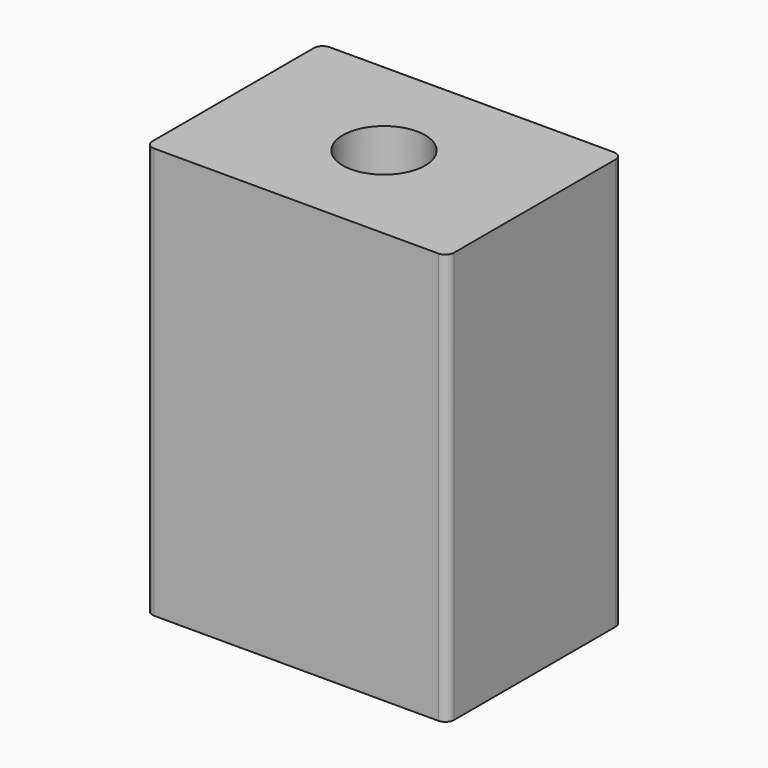
from build123d import *

# Parameters (mm, degrees)
F0_W      = 34.925
F0_H      = 25.4
F1_DEPTH  = 47.625
F2_R      = 11.1125
F3_DEPTH  = 25.4
F4_R      = 9.525
F5_DEPTH  = 8.128
F6_R      = 4.7625
F7_DEPTH  = 25.4
F8_R      = 1.9304
F9_DEPTH  = 16.77604
F10_R     = 1.016
F11_R     = 2.560992
F12_DEPTH = 4.572


with BuildPart() as f1:
    # F0 (on Top) → F1 (new body)
    with BuildSketch(Plane.XY):
        Rectangle(F0_W, F0_H)
    extrude(amount=F1_DEPTH)

    # F2 (on Top) → F3 (cut)
    with BuildSketch(Plane.XY):
        Circle(F2_R)
    extrude(amount=F3_DEPTH, mode=Mode.SUBTRACT)

    # F4 (on face) → F5 (cut)
    with BuildSketch(Plane(origin=(0, 0, 25.4), x_dir=(1, 0, 0), z_dir=(0, 0, -1))):
        Circle(F4_R)
    extrude(amount=-F5_DEPTH, mode=Mode.SUBTRACT)

    # F6 (on face) → F7 (cut)
    with BuildSketch(Plane.XY.offset(47.625)):
        Circle(F6_R)
    extrude(amount=-F7_DEPTH, mode=Mode.SUBTRACT)

    # F8 (on face) → F9 (cut)
    with BuildSketch(Plane(origin=(-17.4625, 0, 0), x_dir=(0, -1, 0), z_dir=(-1, 0, 0))):
        with Locations((0, 21.336)):
            Circle(F8_R)
        with Locations((0, 5.08)):
            Circle(F8_R)
        with Locations((0, 40.600542)):
            Circle(F8_R)
    extrude(amount=-F9_DEPTH, mode=Mode.SUBTRACT)

    # F10
    f10_edges = [f1.edges().sort_by_distance(p)[0] for p in [
        (-17.4625, -12.7, 23.8125),
        (17.4625, -12.7, 23.8125),
        (-17.4625, 12.7, 23.8125),
        (17.4625, 12.7, 23.8125),
    ]]
    fillet(f10_edges, radius=F10_R)

    # F11 (on face) → F12 (cut)
    with BuildSketch(Plane(origin=(-17.4625, 0, 0), x_dir=(0, -1, 0), z_dir=(-1, 0, 0))):
        with Locations((0, 40.600542)):
            Circle(F11_R)
    extrude(amount=-F12_DEPTH, mode=Mode.SUBTRACT)


solid = f1.part
